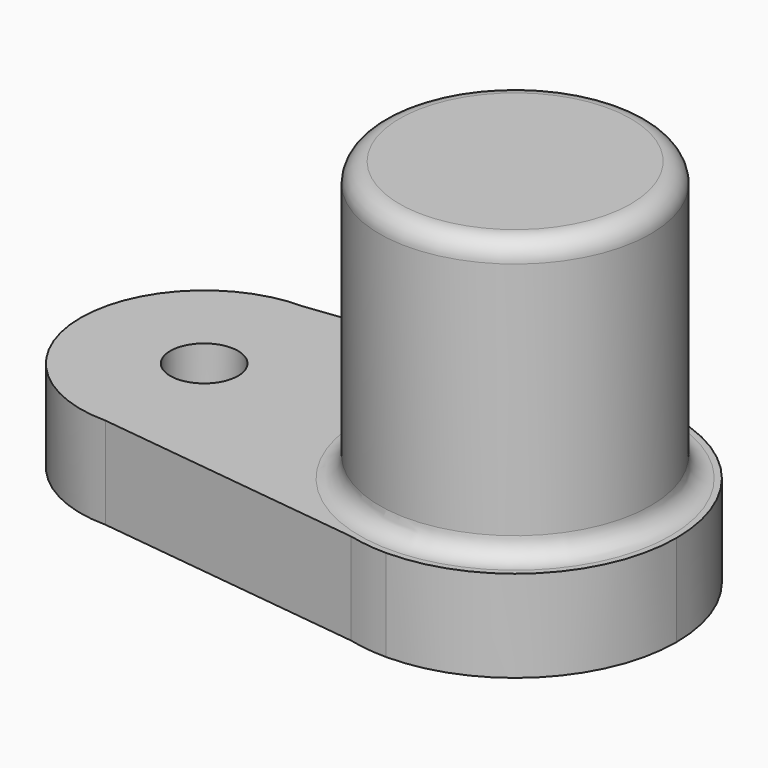
from build123d import *

# Parameters (mm, degrees)
F0_R      = 1.7
F0_R_2    = 4.1
F1_DEPTH  = 4.6
F2_R      = 6.8
F3_DEPTH  = 14
F3_FACE_R = 4.1
F4_DEPTH  = 10
F5_R      = 1


with BuildPart() as f1:
    # F0 (on Top) → F1 (new body)
    with BuildSketch(Plane.XY):
        with BuildLine():
            ThreePointArc((-15.6, -6.2), (-11.215938, -4.384062), (-9.4, 0))
            ThreePointArc((-9.4, 0), (-11.215938, 4.384062), (-15.6, 6.2))
            ThreePointArc((-15.6, 6.2), (-21.8, 0), (-15.6, -6.2))
        make_face()
        with Locations((-15.6, 0)):
            Circle(F0_R, mode=Mode.SUBTRACT)
        with BuildLine():
            ThreePointArc((-15.6, 6.2), (-11.215938, 4.384062), (-9.4, 0))
            ThreePointArc((-9.4, 0), (-11.215938, -4.384062), (-15.6, -6.2))
            Line((-15.6, -6.2), (-1.944236, -7.863202))
            ThreePointArc((-1.944236, -7.863202), (-8.1, 0), (-1.944236, 7.863202))
            Line((-1.944236, 7.863202), (-15.6, 6.2))
        make_face()
        with BuildLine():
            Line((0, 8.1), (-1.944236, 7.863202))
            ThreePointArc((-1.944236, 7.863202), (-8.1, 0), (-1.944236, -7.863202))
            Line((-1.944236, -7.863202), (0, -8.1))
            ThreePointArc((0, -8.1), (5.727565, -5.727565), (8.1, 0))
            ThreePointArc((8.1, 0), (5.727565, 5.727565), (0, 8.1))
        make_face()
        Circle(F0_R_2, mode=Mode.SUBTRACT)
        with BuildLine():
            ThreePointArc((0, 8.1), (-0.979302, 8.040583), (-1.944236, 7.863202))
            Line((-1.944236, 7.863202), (0, 8.1))
        make_face()
        with BuildLine():
            Line((0, -8.1), (-1.944236, -7.863202))
            ThreePointArc((-1.944236, -7.863202), (-0.979302, -8.040583), (0, -8.1))
        make_face()
    extrude(amount=F1_DEPTH)

    # F2 (on face) → F3 (join)
    with BuildSketch(Plane.XY.offset(4.6)):
        Circle(F2_R)
    extrude(amount=F3_DEPTH)

    # F3_face (on face) → F4 (cut)
    with BuildSketch(Plane(origin=(0, 0, 4.6), x_dir=(1, 0, 0), z_dir=(0, 0, -1))):
        Circle(F3_FACE_R)
    extrude(amount=-F4_DEPTH, mode=Mode.SUBTRACT)

    # F5
    f5_edges = [f1.edges().sort_by_distance(p)[0] for p in [
        (-6.8, 0, 4.6),
        (-6.8, 0, 18.6),
    ]]
    fillet(f5_edges, radius=F5_R)


solid = f1.part
